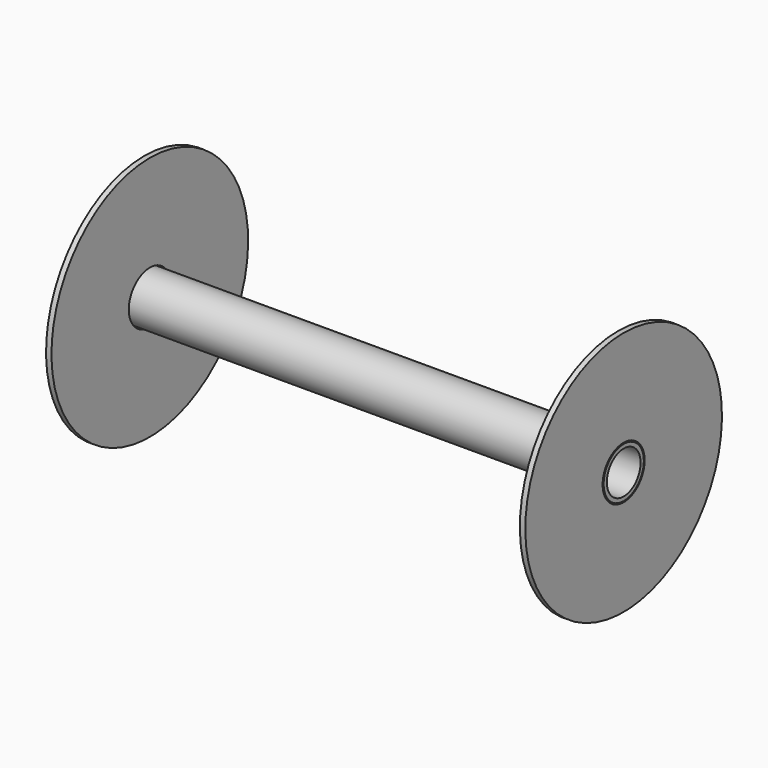
from build123d import *

# Parameters (mm, degrees)
F0_R     = 12.673908
F0_R_2   = 10.651044
F1_DEPTH = 121
F3_W     = 2.743781
F3_H     = 48.778334


with BuildPart() as f1:
    # F0 (on Right) → F1 (new body, symmetric)
    with BuildSketch(Plane.YZ):
        Circle(F0_R)
        Circle(F0_R_2, mode=Mode.SUBTRACT)
    extrude(amount=F1_DEPTH, both=True)


with BuildPart() as f4:
    # F3 (on Front) → F4 (revolve)
    with BuildSketch(Plane.XZ):
        with Locations((-119.583123, 37.650775)):
            Rectangle(F3_W, F3_H)
        with Locations((119.583123, 37.650775)):
            Rectangle(F3_W, F3_H)
    revolve(axis=Axis((63.602366, 0, 0), (1, 0, 0)))


solid = Compound([f1.part, f4.part])
